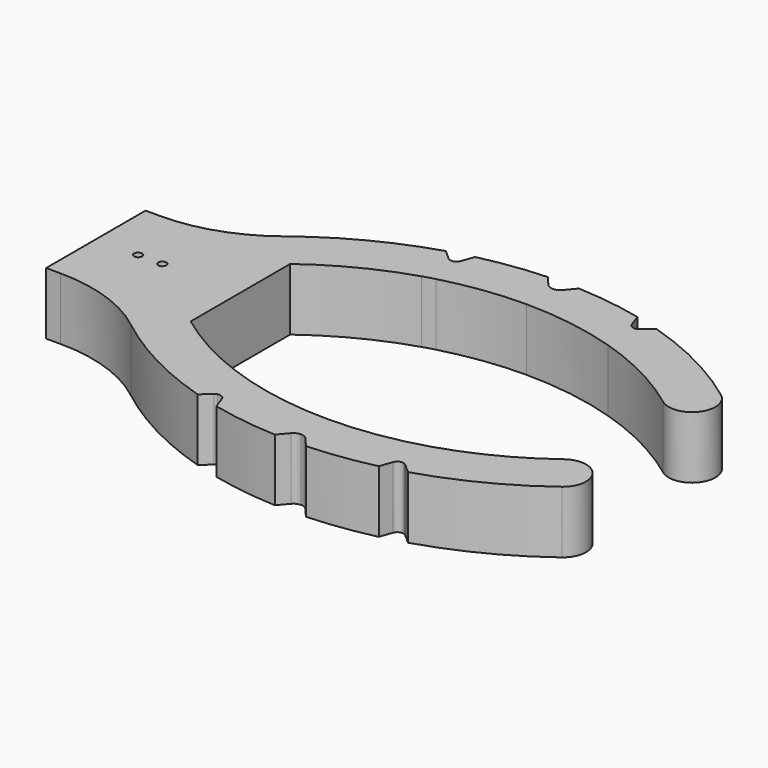
from build123d import *

# Parameters (mm, degrees)
F0_R     = 1.651
F1_DEPTH = 25.4


with BuildPart() as f1:
    # F0 (on Top) → F1 (new body)
    with BuildSketch(Plane.XY):
        with BuildLine():
            Line((5.9660125897, 0), (0, 0))
            Line((0, 0), (0, -50.8))
            Line((0, -50.8), (5.9660125897, -50.8))
            ThreePointArc((5.9660125897, -50.8), (26.8404151011, -54.2874891517), (45.4474833472, -64.3711527752))
            ThreePointArc((45.4474833472, -64.3711527752), (67.7366219489, -78.6995467545), (92.2477625944, -88.7649606997))
            Line((92.2477625944, -88.7649606997), (96.1756392809, -85.285625491))
            ThreePointArc((96.1756392809, -85.285625491), (96.6297262922, -84.9647009914), (97.1427657695, -84.7502760791))
            Line((97.1427657695, -84.7502760791), (97.1427657695, -70.3371887059))
            ThreePointArc((97.1427657695, -70.3371887059), (77.2725114585, -62.1844747684), (59.0602220587, -50.8))
            Line((59.0602220587, -50.8), (59.0253094804, 0))
            ThreePointArc((59.0253094804, 0), (77.2534891322, 11.396761217), (97.1427657695, 19.555766947))
            Line((97.1427657695, 19.555766947), (97.1427657695, 33.9761360632))
            ThreePointArc((97.1427657695, 33.9761360632), (96.6371725478, 34.190077646), (96.1893595345, 34.5076607246))
            Line((96.1893595345, 34.5076607246), (92.2622799467, 37.987895583))
            ThreePointArc((92.2622799467, 37.987895583), (67.7168934482, 27.9114522536), (45.3996037793, 13.5605188218))
            ThreePointArc((45.3996037793, 13.5605188218), (26.8160472709, 3.4848333701), (5.9660125897, 0))
        make_face()
        with Locations((17.272, -25.4)):
            Circle(F0_R, mode=Mode.SUBTRACT)
        with Locations((27.178, -25.4)):
            Circle(F0_R, mode=Mode.SUBTRACT)
        with BuildLine():
            Line((5.9660125897, 0), (0, 0))
            Line((0, 0), (0, -50.8))
            Line((0, -50.8), (5.9660125897, -50.8))
            ThreePointArc((5.9660125897, -50.8), (26.8404151011, -54.2874891517), (45.4474833472, -64.3711527752))
            ThreePointArc((45.4474833472, -64.3711527752), (67.7366219489, -78.6995467545), (92.2477625944, -88.7649606997))
            Line((92.2477625944, -88.7649606997), (96.1756392809, -85.285625491))
            ThreePointArc((96.1756392809, -85.285625491), (96.6297262922, -84.9647009914), (97.1427657695, -84.7502760791))
            Line((97.1427657695, -84.7502760791), (97.1427657695, -70.3371887059))
            ThreePointArc((97.1427657695, -70.3371887059), (77.2725114585, -62.1844747684), (59.0602220587, -50.8))
            Line((59.0602220587, -50.8), (59.0253094804, 0))
            ThreePointArc((59.0253094804, 0), (77.2534891322, 11.396761217), (97.1427657695, 19.555766947))
            Line((97.1427657695, 19.555766947), (97.1427657695, 33.9761360632))
            ThreePointArc((97.1427657695, 33.9761360632), (96.6371725478, 34.190077646), (96.1893595345, 34.5076607246))
            Line((96.1893595345, 34.5076607246), (92.2622799467, 37.987895583))
            ThreePointArc((92.2622799467, 37.987895583), (67.7168934482, 27.9114522536), (45.3996037793, 13.5605188218))
            ThreePointArc((45.3996037793, 13.5605188218), (26.8160472709, 3.4848333701), (5.9660125897, 0))
        make_face()
        with Locations((17.272, -25.4)):
            Circle(F0_R, mode=Mode.SUBTRACT)
        with Locations((27.178, -25.4)):
            Circle(F0_R, mode=Mode.SUBTRACT)
        with BuildLine():
            Line((5.9660125897, 0), (0, 0))
            Line((0, 0), (0, -50.8))
            Line((0, -50.8), (5.9660125897, -50.8))
            ThreePointArc((5.9660125897, -50.8), (26.8404151011, -54.2874891517), (45.4474833472, -64.3711527752))
            ThreePointArc((45.4474833472, -64.3711527752), (67.7366219489, -78.6995467545), (92.2477625944, -88.7649606997))
            Line((92.2477625944, -88.7649606997), (96.1756392809, -85.285625491))
            ThreePointArc((96.1756392809, -85.285625491), (96.6297262922, -84.9647009914), (97.1427657695, -84.7502760791))
            Line((97.1427657695, -84.7502760791), (97.1427657695, -70.3371887059))
            ThreePointArc((97.1427657695, -70.3371887059), (77.2725114585, -62.1844747684), (59.0602220587, -50.8))
            Line((59.0602220587, -50.8), (59.0253094804, 0))
            ThreePointArc((59.0253094804, 0), (77.2534891322, 11.396761217), (97.1427657695, 19.555766947))
            Line((97.1427657695, 19.555766947), (97.1427657695, 33.9761360632))
            ThreePointArc((97.1427657695, 33.9761360632), (96.6371725478, 34.190077646), (96.1893595345, 34.5076607246))
            Line((96.1893595345, 34.5076607246), (92.2622799467, 37.987895583))
            ThreePointArc((92.2622799467, 37.987895583), (67.7168934482, 27.9114522536), (45.3996037793, 13.5605188218))
            ThreePointArc((45.3996037793, 13.5605188218), (26.8160472709, 3.4848333701), (5.9660125897, 0))
        make_face()
        with Locations((17.272, -25.4)):
            Circle(F0_R, mode=Mode.SUBTRACT)
        with Locations((27.178, -25.4)):
            Circle(F0_R, mode=Mode.SUBTRACT)
        with BuildLine():
            Line((173.3427657695, 33.9685711851), (173.3427657695, 19.5447874489))
            ThreePointArc((173.3427657695, 19.5447874489), (193.2134106927, 11.3884070061), (211.4253094804, 0))
            ThreePointArc((211.4253094804, 0), (224.7603094804, 1.905), (222.8553094804, 15.24))
            ThreePointArc((222.8553094804, 15.24), (201.5199367106, 28.5369467154), (178.2203126555, 37.9780505738))
            Line((178.2203126555, 37.9780505738), (174.292435969, 34.4987153651))
            ThreePointArc((174.292435969, 34.4987153651), (173.8463095868, 34.1822161077), (173.3427657695, 33.9685711851))
        make_face()
        with BuildLine():
            ThreePointArc((211.4253094804, -50.8), (193.2130200806, -62.1844747684), (173.3427657695, -70.3371887059))
            Line((173.3427657695, -70.3371887059), (173.3427657695, -84.7683622579))
            ThreePointArc((173.3427657695, -84.7683622579), (173.8388638616, -84.9814448856), (174.2787157154, -85.2945708506))
            Line((174.2787157154, -85.2945708506), (178.2057953033, -88.7748057089))
            ThreePointArc((178.2057953033, -88.7748057089), (201.5113077809, -79.337141934), (222.852691037, -66.0419634811))
            ThreePointArc((222.852691037, -66.0419634811), (224.7599819992, -52.7072909622), (211.4253094804, -50.8))
        make_face()
        with BuildLine():
            ThreePointArc((128.892021211, 44.312617548), (115.3953137669, 43.0975250998), (102.0693249913, 40.6367153465))
            Line((102.0693249913, 40.6367153465), (100.2677893758, 35.5592610119))
            ThreePointArc((100.2677893758, 35.5592610119), (99.5924476221, 34.538163122), (98.5179053993, 33.9515743424))
            Line((98.5179053993, 33.9515743424), (101.8073036013, 20.9244338206))
            ThreePointArc((101.8073036013, 20.9244338206), (118.374331468, 24.2771009359), (135.2398551386, 25.399999167))
            Line((135.2398551386, 25.399999167), (135.2414022457, 38.9079894532))
            ThreePointArc((135.2414022457, 38.9079894532), (133.6409701921, 39.2606320138), (132.3367275841, 40.2529478676))
            Line((132.3367275841, 40.2529478676), (128.892021211, 44.312617548))
        make_face()
        with BuildLine():
            ThreePointArc((98.5179053993, 33.9515743424), (97.8286414895, 33.8690077361), (97.1427657695, 33.9761360632))
            Line((97.1427657695, 33.9761360632), (97.1427657695, 19.555766947))
            ThreePointArc((97.1427657695, 19.555766947), (99.468485514, 20.2624205399), (101.8073036013, 20.9244338206))
            Line((101.8073036013, 20.9244338206), (98.5179053993, 33.9515743424))
        make_face()
        with BuildLine():
            Line((135.2414022457, 38.9079894532), (135.2398551386, 25.399999167))
            ThreePointArc((135.2398551386, 25.399999167), (154.5147695349, 23.9265578705), (173.3427657695, 19.5447874489))
            Line((173.3427657695, 19.5447874489), (173.3427657695, 33.9685711851))
            ThreePointArc((173.3427657695, 33.9685711851), (171.46164391, 34.1335607927), (170.2142471201, 35.5512498522))
            Line((170.2142471201, 35.5512498522), (168.4138746214, 40.6291167233))
            ThreePointArc((168.4138746214, 40.6291167233), (155.088449882, 43.092978936), (141.5920211277, 44.3111629821))
            Line((141.5920211277, 44.3111629821), (138.1463849147, 40.2522824716))
            ThreePointArc((138.1463849147, 40.2522824716), (136.8419150357, 39.2602654008), (135.2414022457, 38.9079894532))
        make_face()
        with BuildLine():
            ThreePointArc((173.3427657695, -70.3371887059), (154.5088049536, -74.7170648066), (135.2282201113, -76.186909293))
            Line((135.2282201113, -76.186909293), (135.2266730042, -89.6948995791))
            ThreePointArc((135.2266730042, -89.6948995791), (136.8271050578, -90.0475421398), (138.1313476658, -91.0398579935))
            Line((138.1313476658, -91.0398579935), (141.5760540389, -95.0995276739))
            ThreePointArc((141.5760540389, -95.0995276739), (155.072761483, -93.8844352257), (168.3987502586, -91.4236254724))
            Line((168.3987502586, -91.4236254724), (170.2002858741, -86.3461711378))
            ThreePointArc((170.2002858741, -86.3461711378), (171.4543564481, -84.9255689093), (173.3427657695, -84.7683622579))
            Line((173.3427657695, -84.7683622579), (173.3427657695, -70.3371887059))
        make_face()
        with BuildLine():
            Line((100.2538281298, -86.3381599782), (102.0542006285, -91.4160268492))
            ThreePointArc((102.0542006285, -91.4160268492), (115.3796253679, -93.879889062), (128.8760541222, -95.0980731081))
            Line((128.8760541222, -95.0980731081), (132.3216903352, -91.0391925976))
            ThreePointArc((132.3216903352, -91.0391925976), (133.6261602142, -90.0471755268), (135.2266730042, -89.6948995791))
            Line((135.2266730042, -89.6948995791), (135.2282201113, -76.186909293))
            ThreePointArc((135.2282201113, -76.186909293), (115.962349399, -74.714857391), (97.1427657695, -70.3371887059))
            Line((97.1427657695, -70.3371887059), (97.1427657695, -84.7502760791))
            ThreePointArc((97.1427657695, -84.7502760791), (99.0145511059, -84.9245969075), (100.2538281298, -86.3381599782))
        make_face()
    extrude(amount=F1_DEPTH)


solid = f1.part
